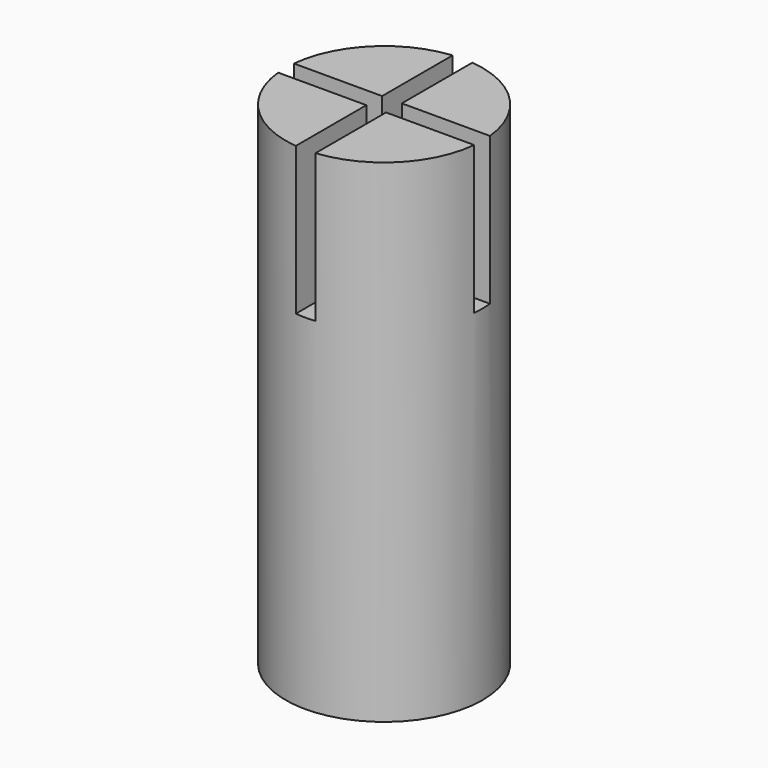
from build123d import *

# Parameters (mm, degrees)
F0_R     = 12.7
F1_DEPTH = 63.5
F2_W     = 2.54
F2_H     = 11.43
F2_H_2   = 2.54
F2_W_2   = 11.43
F3_DEPTH = 19.05


with BuildPart() as f1:
    # F0 (on Top) → F1 (new body)
    with BuildSketch(Plane.XY):
        Circle(F0_R)
    extrude(amount=F1_DEPTH)

    # F2 (on face) → F3 (cut)
    with BuildSketch(Plane.XY.offset(63.5)):
        with Locations((0, 6.985)):
            Rectangle(F2_W, F2_H)
        Rectangle(F2_W, F2_H_2)
        with Locations((-6.985, 0)):
            Rectangle(F2_W_2, F2_H_2)
        with Locations((6.985, 0)):
            Rectangle(F2_W_2, F2_H_2)
        with Locations((0, -6.985)):
            Rectangle(F2_W, F2_H)
    extrude(amount=-F3_DEPTH, mode=Mode.SUBTRACT)


solid = f1.part
